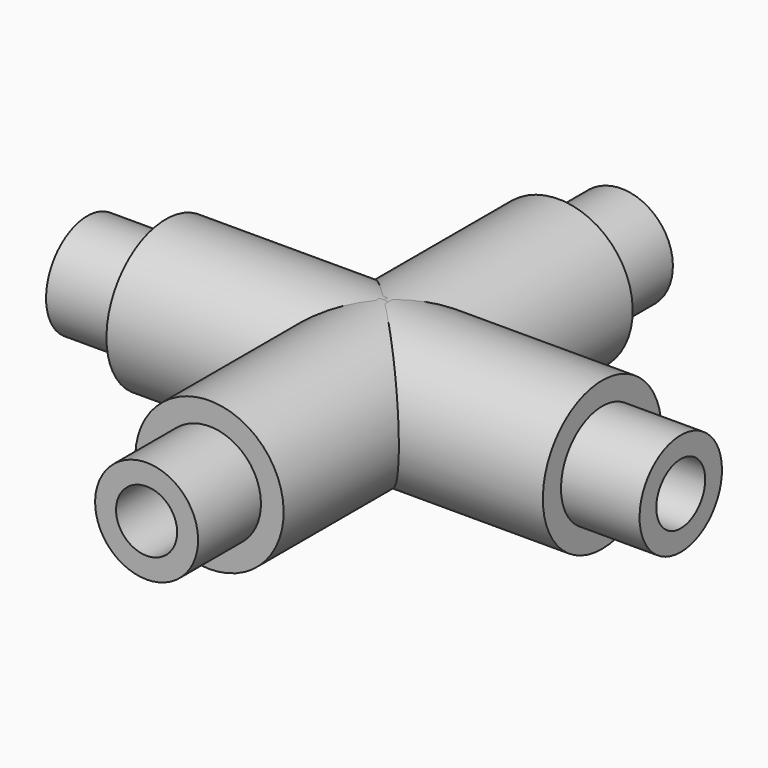
from build123d import *

# Parameters (mm, degrees)
CYLINDER001_R      = 3.5
CYLINDER001_DEPTH  = 34
SKETCH_R           = 12
SKETCH_R_2         = 5.9
EXTRUDE_DEPTH      = 9
CYLINDER_R         = 8.5
CYLINDER_DEPTH     = 34
CUT001_PITCH_ANGLE = 90
ARRAY_COUNT        = 4


with BuildPart() as cylinder001:
    # Cylinder001 → Cylinder001 (new body)
    with BuildSketch(Plane.XY.offset(5)):
        Circle(CYLINDER001_R)
    extrude(amount=CYLINDER001_DEPTH)


with BuildPart() as extrude_body:
    # Sketch → Extrude (new body)
    with BuildSketch(Plane.XY):
        Circle(SKETCH_R)
        Circle(SKETCH_R_2, mode=Mode.SUBTRACT)
    extrude(amount=EXTRUDE_DEPTH)


with BuildPart() as extrude_body_1:
    # Extrude placement: moved
    add(extrude_body.part.moved(Location((0, 0, 25))))


with BuildPart() as array:
    # Cylinder → Cylinder (new body)
    with BuildSketch(Plane.XY):
        Circle(CYLINDER_R)
    extrude(amount=CYLINDER_DEPTH)

    # Cut: cut Extrude body
    add(extrude_body_1.part, mode=Mode.SUBTRACT)

    # Cut001: cut Cylinder001
    add(cylinder001.part, mode=Mode.SUBTRACT)


with BuildPart() as array_1:
    # Cut001 pitch: moved
    add(array.part.rotate(Axis((0, 0, 0), (0, 1, 0)), CUT001_PITCH_ANGLE))


with BuildPart() as array_2:
    # Cut001 placement: moved
    add(array_1.part)


with BuildPart() as array_copy1:
    # Array: instance of Array
    add(array_2.part.rotate(Axis((0, 0, 0), (0, 0, 1)), 1 * 360 / ARRAY_COUNT))


with BuildPart() as array_copy2:
    # Array: instance of Array
    add(array_2.part.rotate(Axis((0, 0, 0), (0, 0, 1)), 2 * 360 / ARRAY_COUNT))


with BuildPart() as array_copy3:
    # Array: instance of Array
    add(array_2.part.rotate(Axis((0, 0, 0), (0, 0, 1)), 3 * 360 / ARRAY_COUNT))


solid = Compound([array_2.part, array_copy1.part, array_copy2.part, array_copy3.part])
